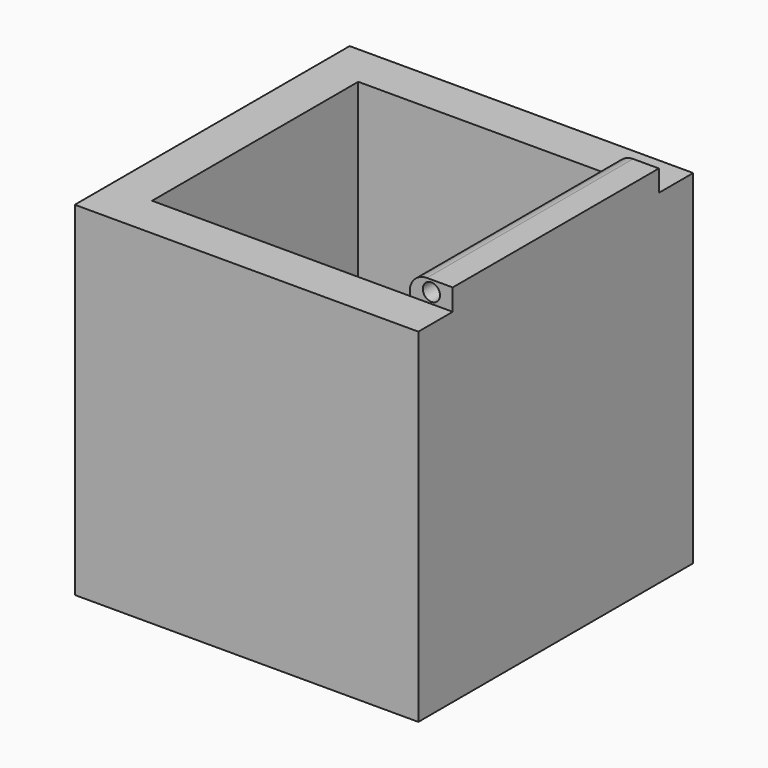
from build123d import *

# Parameters (mm, degrees)
F0_W     = 101.6
F0_H     = 101.6
F1_DEPTH = 101.6
F2_T     = -12.7
F3_W     = 12.7
F3_H     = 76.2
F4_DEPTH = 6.35
F5_R     = 2.54
F6_DEPTH = 95.885
F7_R     = 5.08


with BuildPart() as f1:
    # F0 (on Top) → F1 (new body)
    with BuildSketch(Plane.XY):
        Rectangle(F0_W, F0_H)
    extrude(amount=F1_DEPTH)

    # F2
    f2_openings = [f1.faces().sort_by_distance(p)[0] for p in [
        (0, 0, 101.6),
    ]]
    offset(amount=F2_T, openings=f2_openings)

    # F3 (on face) → F4 (join)
    with BuildSketch(Plane.XY.offset(101.6)):
        with Locations((44.45, 0)):
            Rectangle(F3_W, F3_H)
    extrude(amount=F4_DEPTH)

    # F5 (on face) → F6 (cut)
    with BuildSketch(Plane.XZ.offset(38.1)):
        with Locations((44.505034, 104.681725)):
            Circle(F5_R)
    extrude(amount=-F6_DEPTH, mode=Mode.SUBTRACT)

    # F7
    f7_edges = [f1.edges().sort_by_distance(p)[0] for p in [
        (38.1, 0, 107.95),
    ]]
    fillet(f7_edges, radius=F7_R)


solid = f1.part
